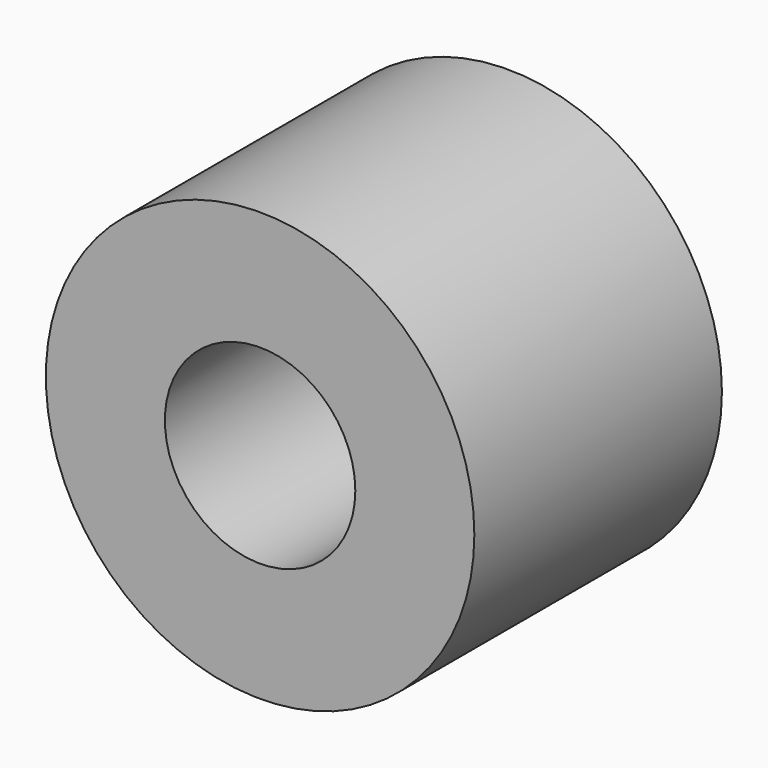
from build123d import *

# Parameters (mm, degrees)
CYLINDER178_R          = 0.4
CYLINDER178_DEPTH      = 1.3
CYLINDER179_R          = 0.9
CYLINDER179_DEPTH      = 1.3
CUT119_PLACEMENT_ANGLE = 90


with BuildPart() as cylinder178:
    # Cylinder178 → Cylinder178 (new body)
    with BuildSketch(Plane.XY):
        Circle(CYLINDER178_R)
    extrude(amount=CYLINDER178_DEPTH)


with BuildPart() as contact004:
    # Cylinder179 → Cylinder179 (new body)
    with BuildSketch(Plane.XY):
        Circle(CYLINDER179_R)
    extrude(amount=CYLINDER179_DEPTH)

    # Cut119: cut Cylinder178
    add(cylinder178.part, mode=Mode.SUBTRACT)


with BuildPart() as contact004_1:
    # Cut119 placement: moved
    add(contact004.part.moved(Location((-17.16, 1.3, -17))).rotate(Axis((-17.16, 1.3, -17), (1, 0, 0)), CUT119_PLACEMENT_ANGLE))


solid = contact004_1.part
